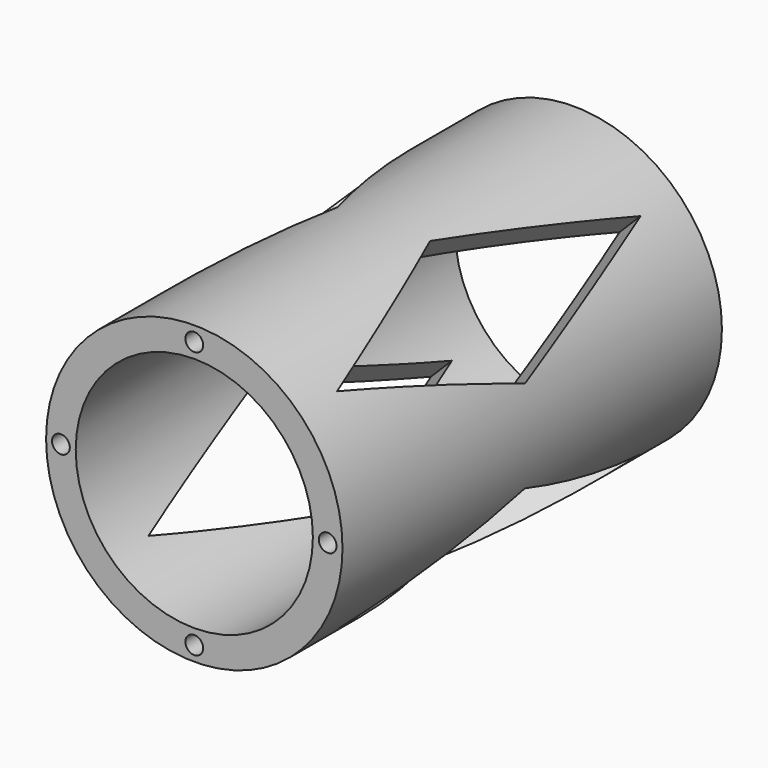
from build123d import *

# Parameters (mm, degrees)
F0_R           = 25
F0_R_2         = 20
F4_DEPTH       = 80
F5_R           = 1.5
F6_DEPTH       = 84
F6_DEPTH_BACK  = 4
F8_DEPTH       = 35.3563390593
F8_DEPTH_BACK  = 25
F10_DEPTH      = 35.3563390593
F10_DEPTH_BACK = 25
F13_R          = 1.5
F14_DEPTH      = 35
F14_DEPTH_BACK = 35
F11_W          = 30.2
F11_H          = 4
F11_R          = 3.5
F15_DEPTH      = 4.1
F15_DEPTH_BACK = 4.1


with BuildPart() as f4:
    # F0 (on Front) → F4 (new body)
    with BuildSketch(Plane.XZ):
        Circle(F0_R)
        Circle(F0_R_2, mode=Mode.SUBTRACT)
    extrude(amount=F4_DEPTH)

    # F5 (on Front) → F6 (cut, two sides)
    with BuildSketch(Plane.XZ) as f6_sk:
        with Locations((0, 22.5)):
            Circle(F5_R)
        with Locations((0, -22.5)):
            Circle(F5_R)
        with Locations((-22.5, 0)):
            Circle(F5_R)
        with Locations((22.5, 0)):
            Circle(F5_R)
    extrude(amount=F6_DEPTH, mode=Mode.SUBTRACT)
    extrude(f6_sk.sketch, amount=-F6_DEPTH_BACK, mode=Mode.SUBTRACT)

    # F7 (on line) → F8 (cut, two sides)
    with BuildSketch(Plane(origin=(0, 0, 0), x_dir=(0.7071067812, 0, 0.7071067812), z_dir=(0.7071067812, 0, -0.7071067812))) as f8_sk:
        Polygon((-11.31, 40), (0, 8), (11.31, 40), (0, 72), align=None)
    extrude(amount=-F8_DEPTH, mode=Mode.SUBTRACT)
    extrude(f8_sk.sketch, amount=F8_DEPTH_BACK, mode=Mode.SUBTRACT)

    # F9 (on line) → F10 (cut, two sides)
    with BuildSketch(Plane(origin=(0, 0, 0), x_dir=(0.7071067812, 0, -0.7071067812), z_dir=(-0.7071067812, 0, -0.7071067812))) as f10_sk:
        Polygon((-11.31, 40), (0, 8), (11.31, 40), (0, 72), align=None)
    extrude(amount=-F10_DEPTH, mode=Mode.SUBTRACT)
    extrude(f10_sk.sketch, amount=F10_DEPTH_BACK, mode=Mode.SUBTRACT)

    # F13 (on offset) → F14 (join, two sides)
    with BuildSketch(Plane.XZ.offset(40)) as f14_sk:
        with Locations((0, 22.5)):
            Circle(F13_R)
        with Locations((0, -22.5)):
            Circle(F13_R)
        with Locations((22.5, 0)):
            Circle(F13_R)
        with Locations((-22.5, 0)):
            Circle(F13_R)
    extrude(amount=F14_DEPTH)
    extrude(f14_sk.sketch, amount=-F14_DEPTH_BACK)

    # F11 (on Right) → F15 (cut, two sides)
    with BuildSketch(Plane.YZ) as f15_sk:
        with Locations((-39.9, -26)):
            Rectangle(F11_W, F11_H)
        with BuildLine():
            Line((-24.8, -28), (-55, -28))
            Line((-55, -28), (-53.4000304969, -28.5403946475))
            ThreePointArc((-53.4000304969, -28.5403946475), (-50.9379901825, -30.3620036381), (-50, -33.2774926609))
            Line((-50, -33.2774926609), (-50, -43.9965311409))
            ThreePointArc((-50, -43.9965311409), (-48.5355339059, -47.5320650468), (-45, -48.9965311409))
            Line((-45, -48.9965311409), (-35, -48.9965311409))
            ThreePointArc((-35, -48.9965311409), (-31.4644660941, -47.5320650468), (-30, -43.9965311409))
            Line((-30, -43.9965311409), (-30, -33.1293155523))
            ThreePointArc((-30, -33.1293155523), (-28.853919359, -29.9438319824), (-25.9410777703, -28.2186768331))
            Line((-25.9410777703, -28.2186768331), (-24.8, -28))
        make_face()
        with Locations((-40, -38.9965311409)):
            Circle(F11_R, mode=Mode.SUBTRACT)
    extrude(amount=F15_DEPTH, mode=Mode.SUBTRACT)
    extrude(f15_sk.sketch, amount=-F15_DEPTH_BACK, mode=Mode.SUBTRACT)


solid = f4.part
